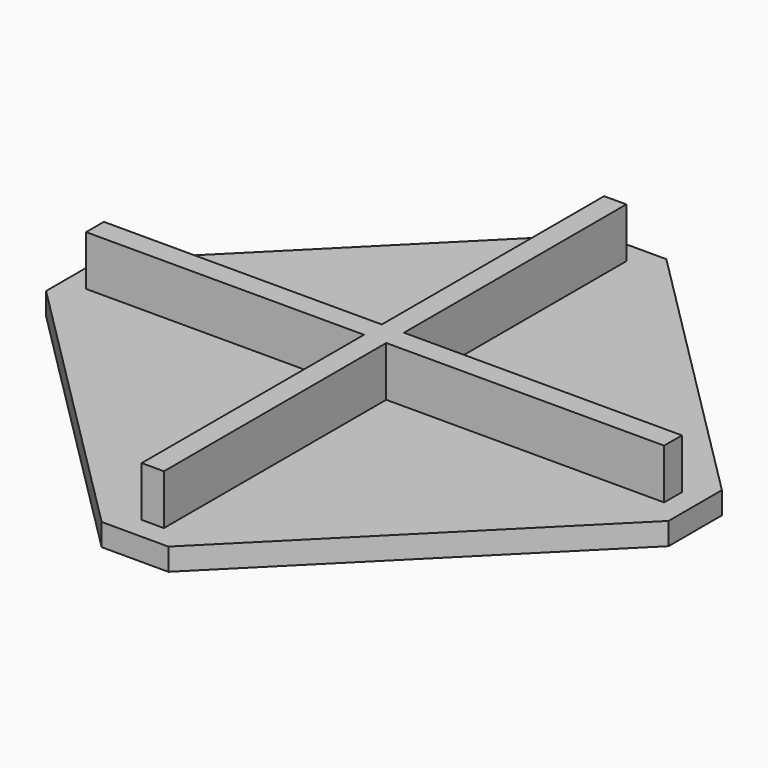
from build123d import *

# Parameters (mm, degrees)
F1_DEPTH = 1.8
F2_DEPTH = 0.8


with BuildPart() as f1:
    # F0 (on Top) → F1 (new body)
    with BuildSketch(Plane.XY):
        Polygon((-0.4, 10.4), (-0.4, 0.4), (-10.4, 0.4), (-10.4, -0.4), (-0.4, -0.4), (-0.4, -10.4), (0.4, -10.4), (0.4, -0.4), (10.4, -0.4), (10.4, 0.4), (0.4, 0.4), (0.4, 10.4), align=None)
    extrude(amount=F1_DEPTH)

    # F0 (on Top) + F1_face (on face) → F2 (join)
    with BuildSketch(Plane.XY):
        Polygon((-1.2, 11.2), (-11.2, 1.2), (-1.2, 1.2), align=None)
        Polygon((11.2, 1.2), (1.2, 11.2), (1.2, 1.2), align=None)
        Polygon((1.2, -1.2), (1.2, -11.2), (11.2, -1.2), align=None)
        Polygon((-1.2, -1.2), (-11.2, -1.2), (-1.2, -11.2), align=None)
        Polygon((-11.2, 1.2), (-11.2, -1.2), (-1.2, -1.2), (-1.2, -11.2), (1.2, -11.2), (1.2, -1.2), (11.2, -1.2), (11.2, 1.2), (1.2, 1.2), (1.2, 11.2), (-1.2, 11.2), (-1.2, 1.2), align=None)
        Polygon((-10.4, 0.4), (-0.4, 0.4), (-0.4, 10.4), (0.4, 10.4), (0.4, 0.4), (10.4, 0.4), (10.4, -0.4), (0.4, -0.4), (0.4, -10.4), (-0.4, -10.4), (-0.4, -0.4), (-10.4, -0.4), align=None, mode=Mode.SUBTRACT)
        Polygon((-0.4, 10.4), (-0.4, 0.4), (-10.4, 0.4), (-10.4, -0.4), (-0.4, -0.4), (-0.4, -10.4), (0.4, -10.4), (0.4, -0.4), (10.4, -0.4), (10.4, 0.4), (0.4, 0.4), (0.4, 10.4), align=None)
    with BuildSketch(Plane.XY.offset(1.8)):
        Polygon((0.4, 0.4), (0.4, 10.4), (-0.4, 10.4), (-0.4, 0.4), (-10.4, 0.4), (-10.4, -0.4), (-0.4, -0.4), (-0.4, -10.4), (0.4, -10.4), (0.4, -0.4), (10.4, -0.4), (10.4, 0.4), align=None)
    extrude(amount=-F2_DEPTH)


solid = f1.part
